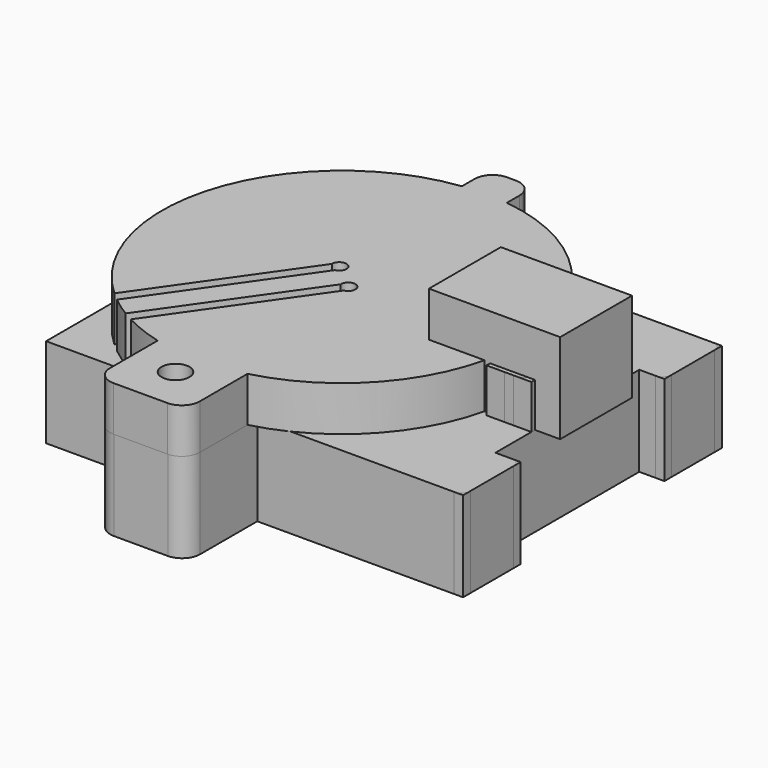
from build123d import *

# Parameters (mm, degrees)
BOX001_W               = 10
BOX001_H               = 10
BOX001_DEPTH           = 14.6
BOX004_W               = 5
BOX004_H               = 10
BOX004_DEPTH           = 5
BOX005_W               = 10
BOX005_H               = 20
BOX005_DEPTH           = 20
CYLINDER_R             = 14
CYLINDER_DEPTH         = 40
BOX_W                  = 10
BOX_H                  = 36
BOX_DEPTH              = 46.4
BOX006_W               = 5
BOX006_H               = 5
BOX006_DEPTH           = 5
CYLINDER003_R          = 1.55
CYLINDER003_DEPTH      = 50
BOX003_W               = 10
BOX003_H               = 14
BOX003_DEPTH           = 5
BOX010_W               = 1.2
BOX010_H               = 30
BOX010_DEPTH           = 10
BOX010_ROLL_ANGLE      = 90
BOX010_PLACEMENT_ANGLE = -35
BOX009_W               = 1.2
BOX009_H               = 30
BOX009_DEPTH           = 10
BOX009_ROLL_ANGLE      = 90
BOX009_PLACEMENT_ANGLE = -35
BOX008_W               = 1.2
BOX008_H               = 30
BOX008_DEPTH           = 10
BOX008_PLACEMENT_ANGLE = 325
BOX007_W               = 1.2
BOX007_H               = 30
BOX007_DEPTH           = 10
BOX007_PLACEMENT_ANGLE = 325
CYLINDER006_R          = 0.8
CYLINDER006_DEPTH      = 30
CYLINDER005_R          = 0.8
CYLINDER005_DEPTH      = 30
CYLINDER004_R          = 4
CYLINDER004_DEPTH      = 10
CYLINDER002_R          = 20
CYLINDER002_DEPTH      = 5
FILLET_R               = 2
CYLINDER001_R          = 1.5
CYLINDER001_DEPTH      = 30
BOX002_W               = 10
BOX002_H               = 10
BOX002_DEPTH           = 10
FILLET001_R            = 2
FILLET002_R            = 1
FILLET003_R            = 1
FILLET004_R            = 2
CHAMFER_SIZE           = 11
FILLET005_R            = 2


with BuildPart() as cube001:
    # Box001 → Box001 (new body)
    with BuildSketch(Plane(origin=(12.1, -4.5, 10), x_dir=(0, 0, -1), z_dir=(1, 0, 0))):
        with Locations((5, 5)):
            Rectangle(BOX001_W, BOX001_H)
    extrude(amount=BOX001_DEPTH)


with BuildPart() as swivelstop:
    # Box004 → Box004 (new body)
    with BuildSketch(Plane(origin=(18.9, -5, -0.1), x_dir=(1, 0, 0), z_dir=(0, 0, 1))):
        with Locations((2.5, 5)):
            Rectangle(BOX004_W, BOX004_H)
    extrude(amount=BOX004_DEPTH)


with BuildPart() as footcutout:
    # Box005 → Box005 (new body)
    with BuildSketch(Plane(origin=(23.9, -10, -18), x_dir=(1, 0, 0), z_dir=(0, 0, 1))):
        with Locations((5, 10)):
            Rectangle(BOX005_W, BOX005_H)
    extrude(amount=BOX005_DEPTH)


with BuildPart() as cardboardbarrelholder:
    # Cylinder → Cylinder (new body)
    with BuildSketch(Plane(origin=(-1.1, 0, -20), x_dir=(1, 0, 0), z_dir=(0, 0, 1))):
        Circle(CYLINDER_R)
    extrude(amount=CYLINDER_DEPTH)


with BuildPart() as mainpiece1:
    # Box → Box (new body)
    with BuildSketch(Plane(origin=(-19.7, -18, 0), x_dir=(0, 0, -1), z_dir=(1, 0, 0))):
        with Locations((5, 18)):
            Rectangle(BOX_W, BOX_H)
    extrude(amount=BOX_DEPTH)

    # Cut: cut cardboardBarrelHolder
    add(cardboardbarrelholder.part, mode=Mode.SUBTRACT)

    # Cut001: cut footCutout
    add(footcutout.part, mode=Mode.SUBTRACT)


with BuildPart() as obj1:
    # Fusion002 base: copy of mainPiece1
    add(mainpiece1.part)

    # Fusion002: union swivelStop
    add(swivelstop.part)


with BuildPart() as obj2:
    # Box006 → Box006 (new body)
    with BuildSketch(Plane(origin=(-3.7, 18.6, 0), x_dir=(1, 0, 0), z_dir=(0, 0, 1))):
        with Locations((2.5, 2.5)):
            Rectangle(BOX006_W, BOX006_H)
    extrude(amount=BOX006_DEPTH)


with BuildPart() as shuttertabhole:
    # Cylinder003 → Cylinder003 (new body)
    with BuildSketch(Plane(origin=(-1.3, -23, -12), x_dir=(1, 0, 0), z_dir=(0, 0, 1))):
        Circle(CYLINDER003_R)
    extrude(amount=CYLINDER003_DEPTH)


with BuildPart() as shutterhingetab001:
    # Box003 → Box003 (new body)
    with BuildSketch(Plane(origin=(-6.2, -28, 0), x_dir=(1, 0, 0), z_dir=(0, 0, 1))):
        with Locations((5, 7)):
            Rectangle(BOX003_W, BOX003_H)
    extrude(amount=BOX003_DEPTH)

    # Cut009: cut shutterTabHole
    add(shuttertabhole.part, mode=Mode.SUBTRACT)


with BuildPart() as radialtransit4:
    # Box010 → Box010 (new body)
    with BuildSketch(Plane.XY):
        with Locations((0.6, 15)):
            Rectangle(BOX010_W, BOX010_H)
    extrude(amount=BOX010_DEPTH)


with BuildPart() as radialtransit4_1:
    # Box010 roll: moved
    add(radialtransit4.part.rotate(Axis((0, 0, 0), (1, 0, 0)), BOX010_ROLL_ANGLE))


with BuildPart() as radialtransit4_2:
    # Box010 placement: moved
    add(radialtransit4_1.part.moved(Location((-14.008889, -13.784169, -4.1))).rotate(Axis((-14.008889, -13.784169, -4.1), (0, 0, 1)), BOX010_PLACEMENT_ANGLE))


with BuildPart() as radialtransit3:
    # Box009 → Box009 (new body)
    with BuildSketch(Plane.XY):
        with Locations((0.6, 15)):
            Rectangle(BOX009_W, BOX009_H)
    extrude(amount=BOX009_DEPTH)


with BuildPart() as radialtransit3_1:
    # Box009 roll: moved
    add(radialtransit3.part.rotate(Axis((0, 0, 0), (1, 0, 0)), BOX009_ROLL_ANGLE))


with BuildPart() as radialtransit3_2:
    # Box009 placement: moved
    add(radialtransit3_1.part.moved(Location((-10.871554, -16.103032, -4.1))).rotate(Axis((-10.871554, -16.103032, -4.1), (0, 0, 1)), BOX009_PLACEMENT_ANGLE))


with BuildPart() as radialtransit2:
    # Box008 → Box008 (new body)
    with BuildSketch(Plane.XY):
        with Locations((0.6, 15)):
            Rectangle(BOX008_W, BOX008_H)
    extrude(amount=BOX008_DEPTH)


with BuildPart() as radialtransit2_1:
    # Box008 placement: moved
    add(radialtransit2.part.moved(Location((-20.375588, -22.876757, 3.8))).rotate(Axis((-20.375588, -22.876757, 3.8), (0, 0, 1)), BOX008_PLACEMENT_ANGLE))


with BuildPart() as radialtransit1:
    # Box007 → Box007 (new body)
    with BuildSketch(Plane.XY):
        with Locations((0.6, 15)):
            Rectangle(BOX007_W, BOX007_H)
    extrude(amount=BOX007_DEPTH)


with BuildPart() as radialtransit1_1:
    # Box007 placement: moved
    add(radialtransit1.part.moved(Location((-17.352968, -25.35945, 3.8))).rotate(Axis((-17.352968, -25.35945, 3.8), (0, 0, 1)), BOX007_PLACEMENT_ANGLE))


with BuildPart() as obj3:
    # Cylinder006 → Cylinder006 (new body)
    with BuildSketch(Plane(origin=(-2.6, 1.4, -18), x_dir=(1, 0, 0), z_dir=(0, 0, 1))):
        Circle(CYLINDER006_R)
    extrude(amount=CYLINDER006_DEPTH)


with BuildPart() as obj4:
    # Cylinder005 → Cylinder005 (new body)
    with BuildSketch(Plane(origin=(0.4, -1.1, -18), x_dir=(1, 0, 0), z_dir=(0, 0, 1))):
        Circle(CYLINDER005_R)
    extrude(amount=CYLINDER005_DEPTH)


with BuildPart() as obj5:
    # Cylinder004 → Cylinder004 (new body)
    with BuildSketch(Plane(origin=(-1.2, 0, -8), x_dir=(1, 0, 0), z_dir=(0, 0, 1))):
        Circle(CYLINDER004_R)
    extrude(amount=CYLINDER004_DEPTH)


with BuildPart() as shutter11:
    # Cylinder002 → Cylinder002 (new body)
    with BuildSketch(Plane(origin=(-1.2, 0, 0), x_dir=(1, 0, 0), z_dir=(0, 0, 1))):
        Circle(CYLINDER002_R)
    extrude(amount=CYLINDER002_DEPTH)

    # Cut002: cut obj5
    add(obj5.part, mode=Mode.SUBTRACT)

    # Cut003: cut obj4
    add(obj4.part, mode=Mode.SUBTRACT)

    # Cut004: cut obj3
    add(obj3.part, mode=Mode.SUBTRACT)

    # Cut005: cut radialTransit1
    add(radialtransit1_1.part, mode=Mode.SUBTRACT)

    # Cut006: cut radialTransit2
    add(radialtransit2_1.part, mode=Mode.SUBTRACT)

    # Cut007: cut radialTransit3
    add(radialtransit3_2.part, mode=Mode.SUBTRACT)

    # Cut008: cut radialTransit4
    add(radialtransit4_2.part, mode=Mode.SUBTRACT)

    # Fusion001: union shutterHingeTab001
    add(shutterhingetab001.part)

    # Fusion003: union obj2
    add(obj2.part)

    # Fillet
    fillet_edges = [shutter11.edges().sort_by_distance(p)[0] for p in [
        (-3.7, 23.6, 2.5),
        (1.3, 23.6, 2.5),
        (3.8, -28, 2.5),
        (-6.2, -28, 2.5),
    ]]
    fillet(fillet_edges, radius=FILLET_R)


with BuildPart() as hingetabhole:
    # Cylinder001 → Cylinder001 (new body)
    with BuildSketch(Plane(origin=(-1.3, -23, -12), x_dir=(1, 0, 0), z_dir=(0, 0, 1))):
        Circle(CYLINDER001_R)
    extrude(amount=CYLINDER001_DEPTH)


with BuildPart() as mainpiecehingetab:
    # Box002 → Box002 (new body)
    with BuildSketch(Plane(origin=(-6.2, -27.952, -10), x_dir=(1, 0, 0), z_dir=(0, 0, 1))):
        with Locations((5, 5)):
            Rectangle(BOX002_W, BOX002_H)
    extrude(amount=BOX002_DEPTH)

    # Cut010: cut hingeTabHole
    add(hingetabhole.part, mode=Mode.SUBTRACT)


with BuildPart() as obj6:
    # Fusion base: copy of mainPiece1
    add(mainpiece1.part)

    # Fusion: union mainPieceHingeTab
    add(mainpiecehingetab.part)

    # Fusion004: union swivelStop
    add(swivelstop.part)

    # Fillet001
    fillet001_edges = [obj6.edges().sort_by_distance(p)[0] for p in [
        (-6.2, -27.952, -5),
        (3.8, -27.952, -5),
    ]]
    fillet(fillet001_edges, radius=FILLET001_R)

    # Fillet002
    fillet002_edges = [obj6.edges().sort_by_distance(p)[0] for p in [
        (26.7, -18, -5),
        (26.7, 18, -5),
    ]]
    fillet(fillet002_edges, radius=FILLET002_R)

    # Fillet003
    fillet003_edges = [obj6.edges().sort_by_distance(p)[0] for p in [
        (26.7, -10, -5),
        (26.7, 10, -5),
    ]]
    fillet(fillet003_edges, radius=FILLET003_R)

    # Fillet004
    fillet004_edges = [obj6.edges().sort_by_distance(p)[0] for p in [
        (23.9, -5, 2.45),
        (18.9, -5, 2.45),
        (18.9, 5, 2.45),
        (23.9, 5, 2.45),
    ]]
    fillet(fillet004_edges, radius=FILLET004_R)

    # Chamfer
    chamfer_edges = [obj6.edges().sort_by_distance(p)[0] for p in [
        (-19.7, -18, -5),
        (-19.7, 18, -5),
    ]]
    chamfer(chamfer_edges, length=CHAMFER_SIZE)

    # Fillet005
    fillet005_edges = [obj6.edges().sort_by_distance(p)[0] for p in [
        (-8.7, -18, -5),
        (-19.7, -7, -5),
        (-19.7, 7, -5),
        (-8.7, 18, -5),
    ]]
    fillet(fillet005_edges, radius=FILLET005_R)


solid = Compound([cube001.part, obj1.part, shutter11.part, obj6.part])
